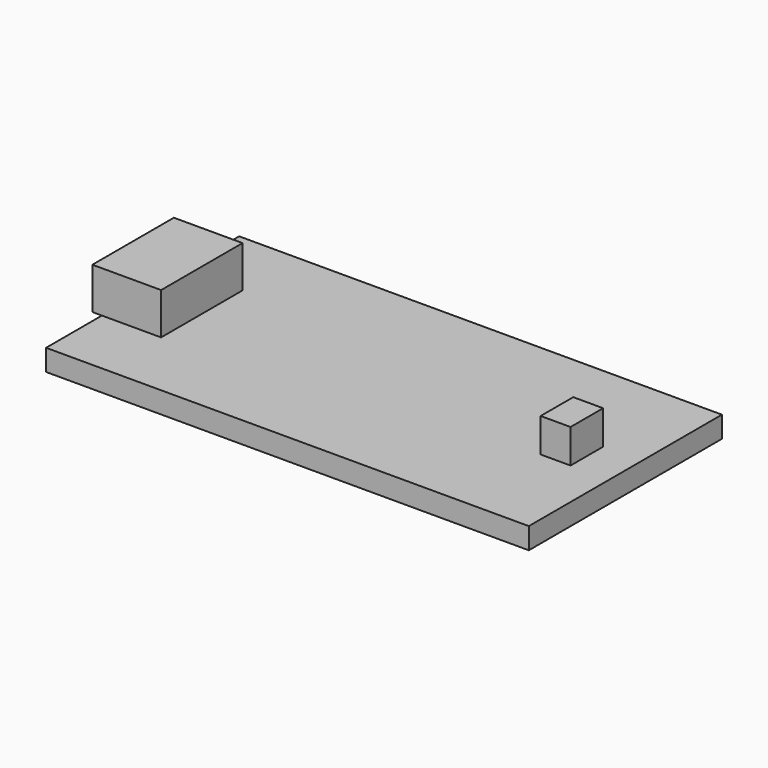
from build123d import *

# Parameters (mm, degrees)
F0_W     = 35.56
F0_H     = 17.78
F1_DEPTH = 1.57
F2_W     = 4.36
F2_H     = 3.75
F3_DEPTH = 3.07
F2_W_2   = 2.2
F2_H_2   = 1.5
F4_DEPTH = 2.5


with BuildPart() as f1:
    # F0 (on Top) → F1 (new body)
    with BuildSketch(Plane.XY):
        Rectangle(F0_W, F0_H)
    extrude(amount=F1_DEPTH)

    # F2 (on face) → F3 (join)
    with BuildSketch(Plane.XY.offset(1.57)):
        with Locations((-15.6, 1.875)):
            Rectangle(F2_W, F2_H)
        Polygon((-17.78, -3.75), (-17.78, 0), (-17.78, 3.75), (-18.48, 3.75), (-18.48, -3.75), align=None)
        with Locations((-15.6, -1.875)):
            Rectangle(F2_W, F2_H)
    extrude(amount=F3_DEPTH)

    # F2 (on face) → F4 (join)
    with BuildSketch(Plane.XY.offset(1.57)):
        with Locations((13.841648, 0.75)):
            Rectangle(F2_W_2, F2_H_2)
        with Locations((13.841648, -0.75)):
            Rectangle(F2_W_2, F2_H_2)
    extrude(amount=F4_DEPTH)


solid = f1.part
